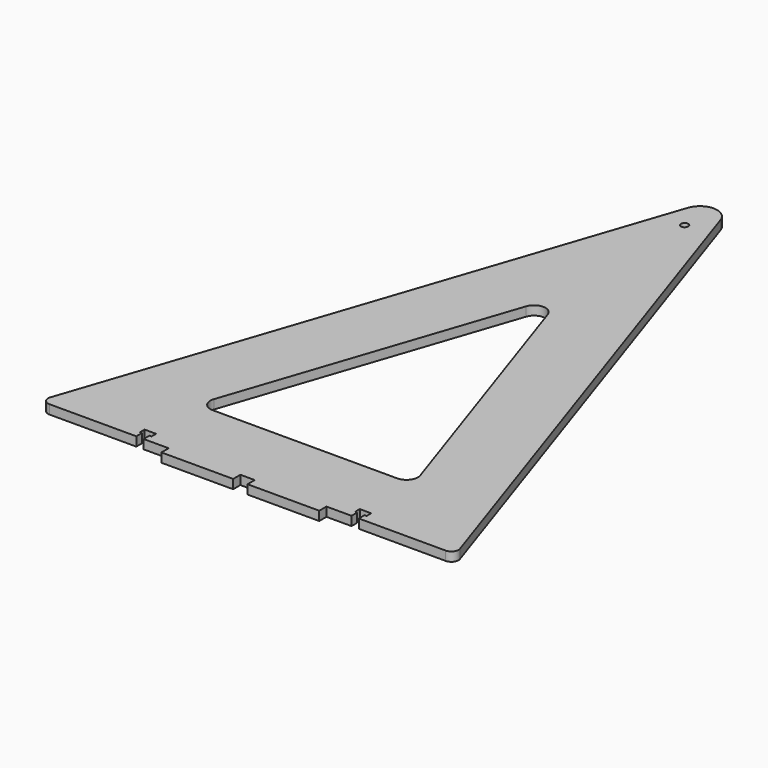
from build123d import *

# Parameters (mm, degrees)
F0_R     = 2.55
F1_DEPTH = 6.35


with BuildPart() as f1:
    # F0 (on Top) → F1 (new body)
    with BuildSketch(Plane.XY):
        with BuildLine():
            Line((-8.919358, 346.191724), (-140.330109, -45.140431))
            ThreePointArc((-140.330109, -45.140431), (-139.649673, -49.651147), (-135.590217, -51.732103))
            Line((-135.590217, -51.732103), (-75.093617, -51.732103))
            Line((-75.093617, -51.732103), (-75.093617, -46.732103))
            Line((-75.093617, -46.732103), (-76.543617, -46.732103))
            Line((-76.543617, -46.732103), (-76.543617, -42.732103))
            Line((-76.543617, -42.732103), (-75.093617, -42.732103))
            Line((-75.093617, -42.732103), (-72.543617, -42.732103))
            Line((-72.543617, -42.732103), (-69.993617, -42.732103))
            Line((-69.993617, -42.732103), (-68.543617, -42.732103))
            Line((-68.543617, -42.732103), (-68.543617, -46.732103))
            Line((-68.543617, -46.732103), (-69.993617, -46.732103))
            Line((-69.993617, -46.732103), (-69.993617, -51.732103))
            Line((-69.993617, -51.732103), (-52.543617, -51.732103))
            Line((-52.543617, -51.732103), (-52.543617, -58.032103))
            Line((-52.543617, -58.032103), (-2.543617, -58.032103))
            Line((-2.543617, -58.032103), (-2.543617, -51.732103))
            Line((-2.543617, -51.732103), (2.456383, -51.732103))
            Line((2.456383, -51.732103), (7.456383, -51.732103))
            Line((7.456383, -51.732103), (7.456383, -58.032103))
            Line((7.456383, -58.032103), (57.456383, -58.032103))
            Line((57.456383, -58.032103), (57.456383, -51.732103))
            Line((57.456383, -51.732103), (74.906383, -51.732103))
            Line((74.906383, -51.732103), (74.906383, -46.732103))
            Line((74.906383, -46.732103), (73.456383, -46.732103))
            Line((73.456383, -46.732103), (73.456383, -42.732103))
            Line((73.456383, -42.732103), (74.906383, -42.732103))
            Line((74.906383, -42.732103), (77.456383, -42.732103))
            Line((77.456383, -42.732103), (80.006383, -42.732103))
            Line((80.006383, -42.732103), (81.456383, -42.732103))
            Line((81.456383, -42.732103), (81.456383, -46.732103))
            Line((81.456383, -46.732103), (80.006383, -46.732103))
            Line((80.006383, -46.732103), (80.006383, -51.732103))
            Line((80.006383, -51.732103), (140.566313, -51.732103))
            ThreePointArc((140.566313, -51.732103), (144.588797, -49.6701), (145.263036, -45.200466))
            Line((145.263036, -45.200466), (13.832124, 346.191724))
            ThreePointArc((13.832124, 346.191724), (2.456383, 354.371709), (-8.919358, 346.191724))
        make_face()
        with BuildLine():
            Line((66.796947, -1.732103), (2.456383, -1.732103))
            Line((2.456383, -1.732103), (-61.88418, -1.732103))
            ThreePointArc((-61.88418, -1.732103), (-68.37931, 1.597426), (-69.468008, 8.814573))
            Line((-69.468008, 8.814573), (-5.127444, 200.416334))
            ThreePointArc((-5.127444, 200.416334), (2.456383, 205.869657), (10.040211, 200.416334))
            Line((10.040211, 200.416334), (74.380774, 8.814573))
            ThreePointArc((74.380774, 8.814573), (73.292076, 1.597426), (66.796947, -1.732103))
        make_face(mode=Mode.SUBTRACT)
        with Locations((2.456383, 329.067897)):
            Circle(F0_R, mode=Mode.SUBTRACT)
    extrude(amount=F1_DEPTH)


solid = f1.part
